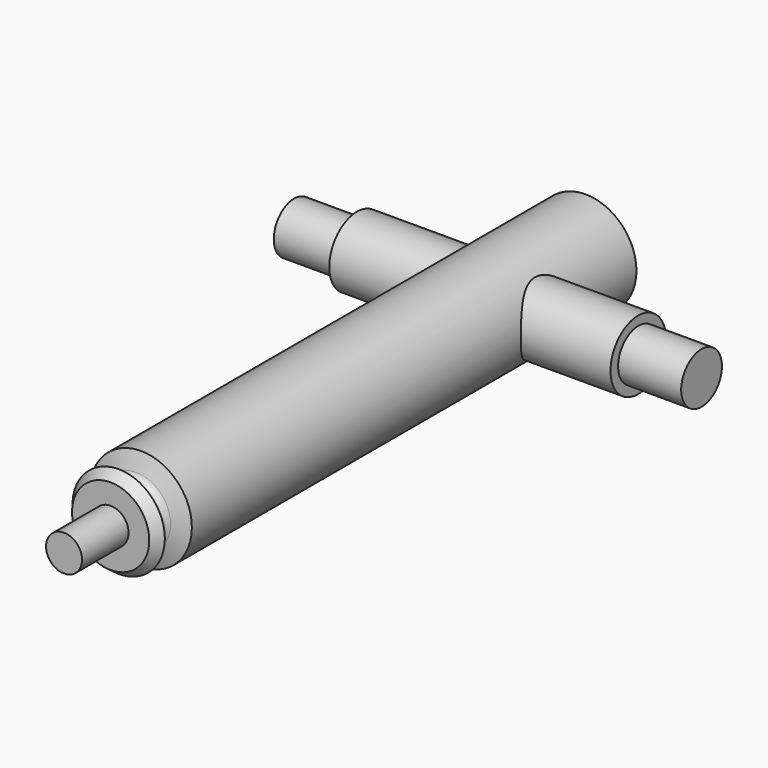
from build123d import *

# Parameters (mm, degrees)
F0_R     = 3.175
F1_DEPTH = 40.64
F4_R     = 2.159
F5_DEPTH = 8.765794
F6_R     = 1.5875
F7_DEPTH = 12.7


with BuildPart() as f1:
    # F0 (on Front) → F1 (new body)
    with BuildSketch(Plane.XZ):
        Circle(F0_R)
    extrude(amount=F1_DEPTH)

    # F2 (on Top) → F3 (revolve, cut)
    with BuildSketch(Plane.XY):
        with BuildLine():
            Line((2.4847375462, -48.6786328256), (2.4847375462, -48.4504029155))
            Line((2.4847375462, -48.4504029155), (3.6910393974, -48.4504029155))
            Line((3.6910393974, -48.4504029155), (3.6910393974, -34.4593115151))
            Line((3.6910393974, -34.4593115151), (2.1464712918, -35.0223816931))
            ThreePointArc((2.1464712918, -35.0223816931), (1.8223472959, -35.5313199787), (2.1464712918, -36.0402582643))
            Line((2.1464712918, -36.0402582643), (2.8785056202, -36.3818742335))
            Line((2.8785056202, -36.3818742335), (2.4079122813, -37.009332329))
            Line((2.4079122813, -37.009332329), (1.121821173, -37.009332329))
            Line((1.121821173, -37.009332329), (1.121821173, -46.976801008))
            Line((1.121821173, -46.976801008), (2.4847375462, -48.6786328256))
        make_face()
    revolve(axis=Axis((0, -45.1813880354, 0), (0, 1, 0)), mode=Mode.SUBTRACT)

    # F4 (on Right) → F5 (join, symmetric)
    with BuildSketch(Plane.YZ):
        with Locations((-6.8540938167, 0)):
            Circle(F4_R)
    extrude(amount=F5_DEPTH, both=True)

    # F6 (on Right) → F7 (join, symmetric)
    with BuildSketch(Plane.YZ):
        with Locations((-6.8342058709, 0)):
            Circle(F6_R)
    extrude(amount=F7_DEPTH, both=True)


solid = f1.part
